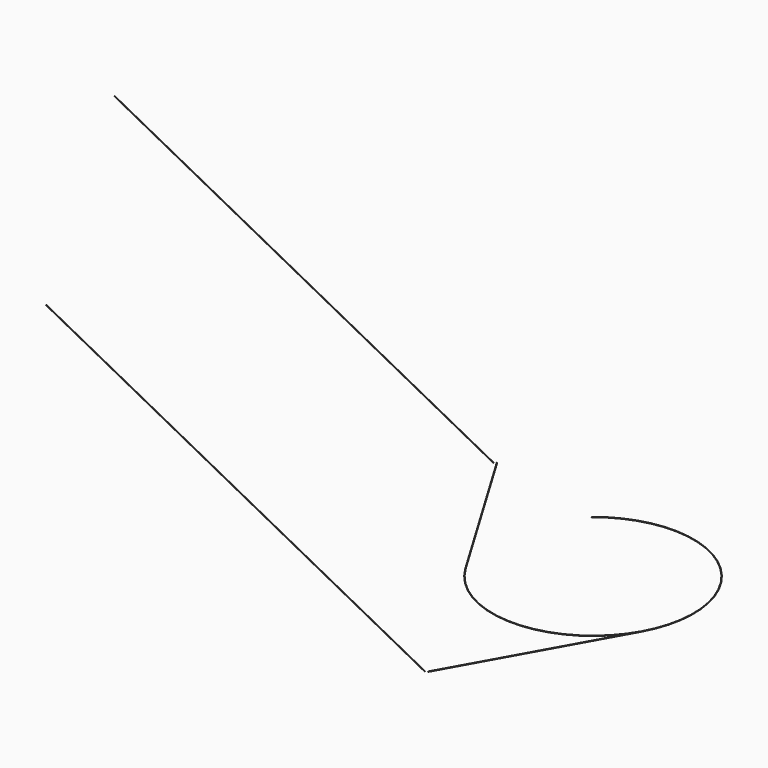
from build123d import *

# Parameters (mm, degrees)
F9_R  = 0.1
F8_R  = 0.1
F13_R = 0.1
F16_R = 0.1


with BuildPart() as f10:
    # F10: sweep along a path in F4
    with BuildLine(Plane(origin=(42.2187384345, -73.125, 0), x_dir=(-0.8660254038, -0.5, 0), z_dir=(-0.5, 0.8660254038, 0))) as f10_path:
        Line((49.9171391129, 0), (191.3384953503, 141.4213562373))
    # F9 (on line) → F10 (sweep)
    with BuildSketch(Plane(origin=(-144.0892424172, -83.1899628969, 166.3799257938), x_dir=(0.790569415, -0.2738612788, 0.5477225575), z_dir=(-0.6123724357, -0.3535533906, 0.7071067812))):
        with Locations((26.0622062585, -87.7286116016)):
            Circle(F9_R)
    sweep(path=f10_path.line)


with BuildPart() as f11:
    # F11: sweep along a path in F5
    with BuildLine(Plane(origin=(-42.2187384345, 73.125, 0), x_dir=(-0.8660254038, -0.5, 0), z_dir=(-0.5, 0.8660254038, 0))) as f11_path:
        Line((50.0849038363, 0), (191.5062600736, 141.4213562373))
    # F8 (on line) → F11 (sweep)
    with BuildSketch(Plane(origin=(-144.1618866733, -83.2319040777, 166.4638081554), x_dir=(0.790569415, -0.2738612788, 0.5477225575), z_dir=(-0.6123724357, -0.3535533906, 0.7071067812))):
        with Locations((-80.8355809783, 43.006338417)):
            Circle(F8_R)
    sweep(path=f11_path.line)


with BuildPart() as f14:
    # F14: sweep along a path in F1
    with BuildLine(Plane.XY) as f14_path:
        Line((-84.437476869, 48.75), (-40.7816353666, -24.3538131886))
        ThreePointArc((-40.7816353666, -24.3538131886), (0.7002032171, -47.4948388297), (41.4818385837, -23.141025641))
    # F13 (on line) → F14 (sweep)
    with BuildSketch(Plane(origin=(0, 0, 0), x_dir=(0.8585607446, 0.5127118566, 0), z_dir=(0.5127118566, -0.8585607446, 0))):
        with Locations((-47.5, 0)):
            Circle(F13_R)
    sweep(path=f14_path.line)


with BuildPart() as f17:
    # F17: sweep along a path in F1
    with BuildLine(Plane.XY) as f17_path:
        Line((0, -97.5), (41.4818385837, -23.141025641))
        ThreePointArc((41.4818385837, -23.141025641), (30.4700040193, 36.4393860412), (-30.1187851626, 36.7302161759))
    # F16 (on line) → F17 (sweep)
    with BuildSketch(Plane(origin=(0, 0, 0), x_dir=(-0.8733018649, 0.4871794872, 0), z_dir=(0.4871794872, 0.8733018649, 0))):
        with Locations((-47.5, 0)):
            Circle(F16_R)
    sweep(path=f17_path.line)


solid = Compound([f10.part, f11.part, f14.part, f17.part])
